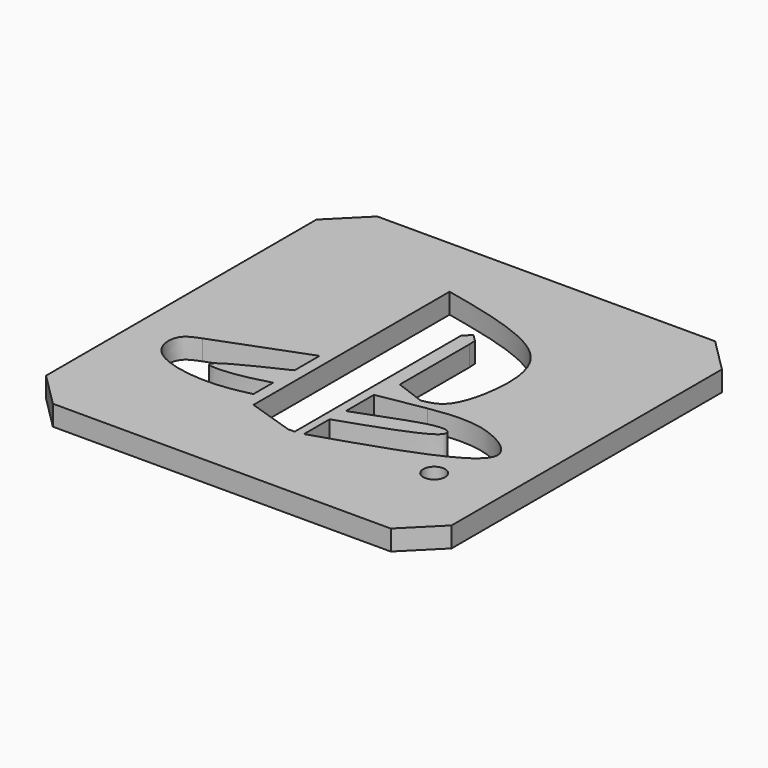
from build123d import *

# Parameters (mm, degrees)
F0_W     = 60
F0_H     = 60
F0_R     = 1.6112939769
F1_DEPTH = 3
F2_SIZE  = 5


with BuildPart() as f1:
    # F0 (on Top) → F1 (new body)
    with BuildSketch(Plane.XY):
        with Locations((24.9740350166, -9.1694972429)):
            Rectangle(F0_W, F0_H)
        with BuildLine():
            Line((3.2622774597, -15.6086981297), (16.5645107627, -10.5752451345))
            Line((16.5645107627, -10.5752451345), (16.5645107627, -15.204295516))
            add(Edge.make_bspline(
                [(16.5645107627, -19.1635359079), (14.8224645411, -19.6451143125), (11.7558446548, -20.4928632954), (6.1547440409, -20.5448956868), (11.8429032498, -17.426394245), (14.8983947786, -15.9884085963), (16.5645107627, -15.204295516)],
                knots=[0, 0, 0, 0, 0.2743421374, 0.4829395706, 0.7180543169, 1, 1, 1, 1], degree=3))
            Line((16.5645107627, -19.1635359079), (16.5645107627, -22.8168163449))
            add(Edge.make_bspline(
                [(16.5645107627, -22.8168163449), (14.4725531382, -23.2798512694), (10.0419202377, -24.2605297243), (0.6256088462, -22.3279022421), (0.2660082773, -16.7243281021), (2.3214114275, -15.9590199071), (3.2622774597, -15.6086981297)],
                knots=[0, 0, 0, 0, 0.2846115058, 0.6027890272, 0.8181756645, 1, 1, 1, 1], degree=3))
        make_face(mode=Mode.SUBTRACT)
        with Locations((45.2274344862, -25.2090897411)):
            Circle(F0_R, mode=Mode.SUBTRACT)
        with BuildLine():
            Line((27.5594554842, -19.4526854903), (27.5594554842, -14.2551343888))
            Line((27.5594554842, -14.2551343888), (34.5340929925, -13.0454646423))
            add(Edge.make_bspline(
                [(34.5340929925, -13.0454646423), (37.2063908175, -12.6439263534), (42.3024714088, -11.8781915384), (53.478633217, -18.6523955934), (37.6371992304, -23.7025636039), (27.378866449, -26.9728675485)],
                knots=[0, 0, 0, 0, 0.2798359986, 0.5336481539, 1, 1, 1, 1], degree=3))
            Line((27.378866449, -26.9728675485), (27.378866449, -22.2297701985))
            add(Edge.make_bspline(
                [(34.2456139624, -16.9829949737), (35.640261338, -16.5033856088), (37.9383903882, -15.7130752885), (40.0731287249, -15.8571844549), (40.2704488484, -17.8896647841), (33.0974326396, -20.3045464891), (27.378866449, -22.2297701985)],
                knots=[0, 0, 0, 0, 0.2546068482, 0.4195464779, 0.5372432196, 1, 1, 1, 1], degree=3))
            Line((34.2456139624, -16.9829949737), (27.5594554842, -19.4526854903))
        make_face(mode=Mode.SUBTRACT)
        with BuildLine():
            Line((18.2588193566, -24.9153450131), (18.2588193566, 11.3608455285))
            add(Edge.make_bspline(
                [(32.6563753188, -11.9998930022), (33.6693549813, -11.8025701643), (36.1962896301, -11.3103372651), (38.2049388483, -4.0554139358), (37.4316089742, 7.077116303), (25.3393667705, 9.7788562356), (18.2588193566, 11.3608455285)],
                knots=[0, 0, 0, 0, 0.1494558255, 0.3728259491, 0.6327616062, 1, 1, 1, 1], degree=3))
            Line((32.6563753188, -11.9998930022), (28.2806474715, -10.3766387329))
            Line((28.2806474715, -10.3766387329), (28.2806474715, 2.468238119))
            Line((28.2806474715, 2.468238119), (28.2100718468, 3.597458126))
            Line((28.2100718468, 3.597458126), (27.1867176699, 4.6208149288))
            Line((27.1867176699, 4.6208149288), (26.1633582413, 3.597458126))
            Line((26.1633582413, 3.597458126), (26.1633582413, 1.7624760512))
            Line((26.1633582413, 1.7624760512), (26.1633582413, -27.1737873554))
            Line((26.1633582413, -27.1737873554), (25.1752920449, -27.1737873554))
            Line((25.1752920449, -27.1737873554), (18.2588193566, -24.9153450131))
        make_face(mode=Mode.SUBTRACT)
    extrude(amount=F1_DEPTH)

    # F2
    f2_edges = [f1.edges().sort_by_distance(p)[0] for p in [
        (-5.025965, 20.830503, 1.5),
        (-5.025965, -39.169497, 1.5),
        (54.974035, -39.169497, 1.5),
        (54.974035, 20.830503, 1.5),
    ]]
    chamfer(f2_edges, length=F2_SIZE)


solid = f1.part
